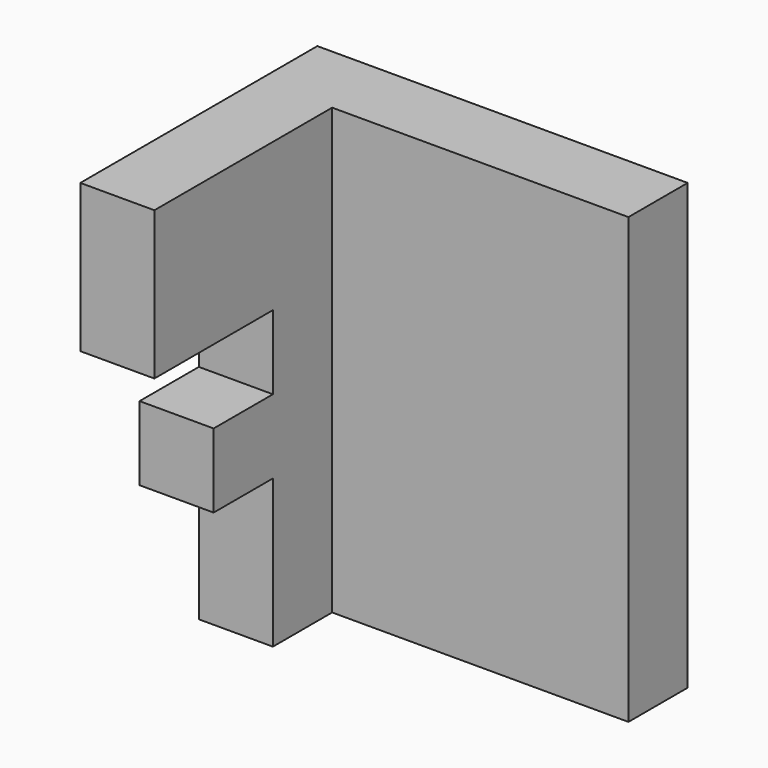
from build123d import *

# Parameters (mm, degrees)
F1_DEPTH = 12.7
F2_W     = 12.7
F2_H     = 76.2
F3_DEPTH = 50.8


with BuildPart() as f1:
    # F0 (on Right) → F1 (new body)
    with BuildSketch(Plane.YZ):
        Polygon((-44.519397, -30.93571), (-44.519397, -56.33571), (-31.819397, -56.33571), (-19.119397, -56.33571), (-19.119397, 19.86429), (-69.919397, 19.86429), (-69.919397, -5.53571), (-44.519397, -5.53571), (-44.519397, -18.23571), (-57.219397, -18.23571), (-57.219397, -30.93571), align=None)
    extrude(amount=F1_DEPTH)

    # F2 (on face) → F3 (join)
    with BuildSketch(Plane.YZ.offset(12.7)):
        with Locations((-25.469397, -18.23571)):
            Rectangle(F2_W, F2_H)
    extrude(amount=F3_DEPTH)


solid = f1.part
